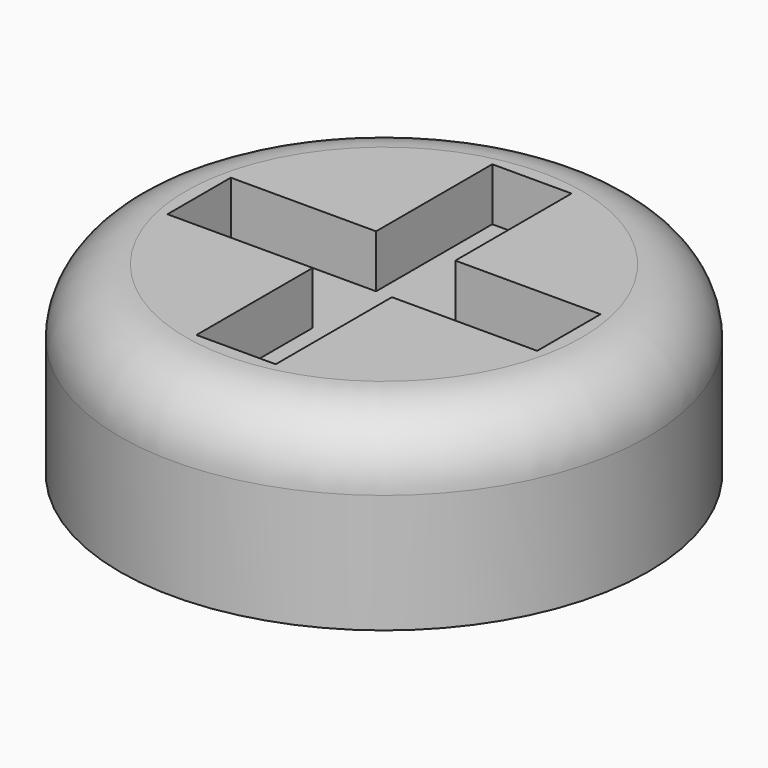
from build123d import *

# Parameters (mm, degrees)
SKETCH002_R  = 10
PAD001_DEPTH = 7
POCKET_DEPTH = 2
FILLET_R     = 2.5


with BuildPart() as part:
    # Sketch002 → Pad001 (new body)
    with BuildSketch(Plane.XY):
        Circle(SKETCH002_R)
    extrude(amount=PAD001_DEPTH)

    # Sketch003 → Pocket (cut)
    with BuildSketch(Plane.XY.offset(7)):
        Polygon((-1.5, 7), (1.5, 7), (1.5, 1.5), (7, 1.5), (7, -1.5), (1.5, -1.5), (1.5, -7), (-1.5, -7), (-1.5, -1.5), (-7, -1.5), (-7, 1.5), (-1.5, 1.5), align=None)
    extrude(amount=-POCKET_DEPTH, mode=Mode.SUBTRACT)

    # Fillet
    fillet_edges = [part.edges().sort_by_distance(p)[0] for p in [
        (-10, 0, 7),
    ]]
    fillet(fillet_edges, radius=FILLET_R)


solid = part.part
